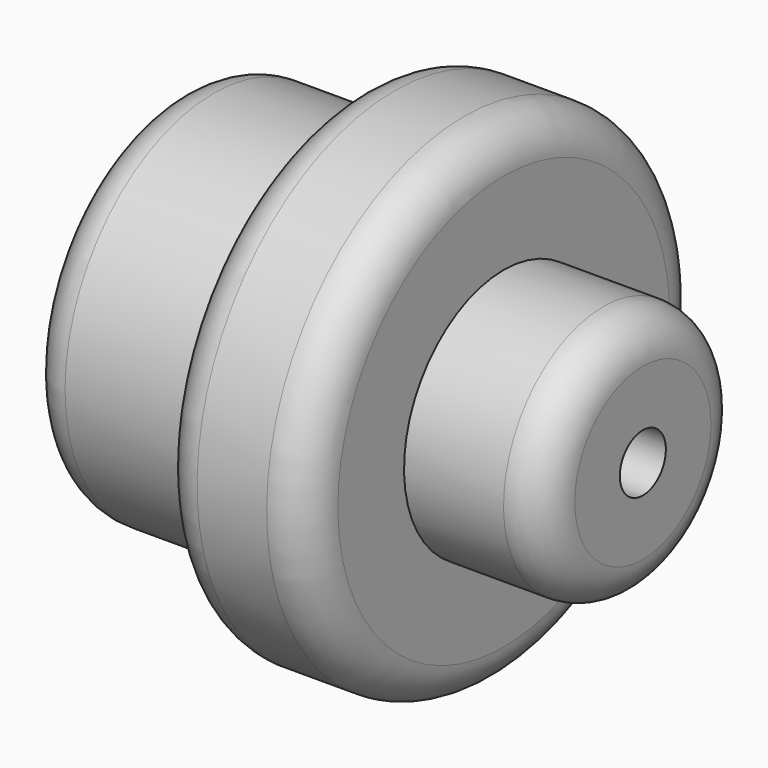
from build123d import *


with BuildPart() as f1:
    # F0 (on Front) → F1 (revolve)
    with BuildSketch(Plane.XZ):
        with BuildLine():
            Line((6.003635, 2.413445), (33.71273, 2.770909))
            Line((33.71273, 2.770909), (33.71273, 8.197274))
            ThreePointArc((33.71273, 8.197274), (32.596807, 10.891351), (29.90273, 12.007274))
            Line((29.90273, 12.007274), (20.320002, 12.007274))
            Line((20.320002, 12.007274), (20.320002, 19.973635))
            ThreePointArc((20.320002, 19.973635), (19.204079, 22.667712), (16.510002, 23.783635))
            Line((16.510002, 23.783635), (9.813635, 23.783635))
            ThreePointArc((9.813635, 23.783635), (7.119559, 22.667712), (6.003635, 19.973635))
            Line((6.003635, 19.973635), (6.003635, 17.895455))
            Line((6.003635, 17.895455), (6.003635, 12.007274))
            Line((6.003635, 12.007274), (6.003635, 6.363855))
            Line((6.003635, 6.363855), (6.003635, 2.413445))
        make_face()
        with BuildLine():
            Line((-11.429418, 6.363855), (6.003635, 6.363855))
            Line((6.003635, 6.363855), (6.003635, 12.007274))
            Line((6.003635, 12.007274), (6.003635, 17.895455))
            Line((6.003635, 17.895455), (-7.619418, 17.895455))
            ThreePointArc((-7.619418, 17.895455), (-10.313495, 16.779531), (-11.429418, 14.085455))
            Line((-11.429418, 14.085455), (-11.429418, 6.363855))
        make_face()
    revolve(axis=Axis((-4e-06, 0, 0), (1, 0, 0)))


solid = f1.part
